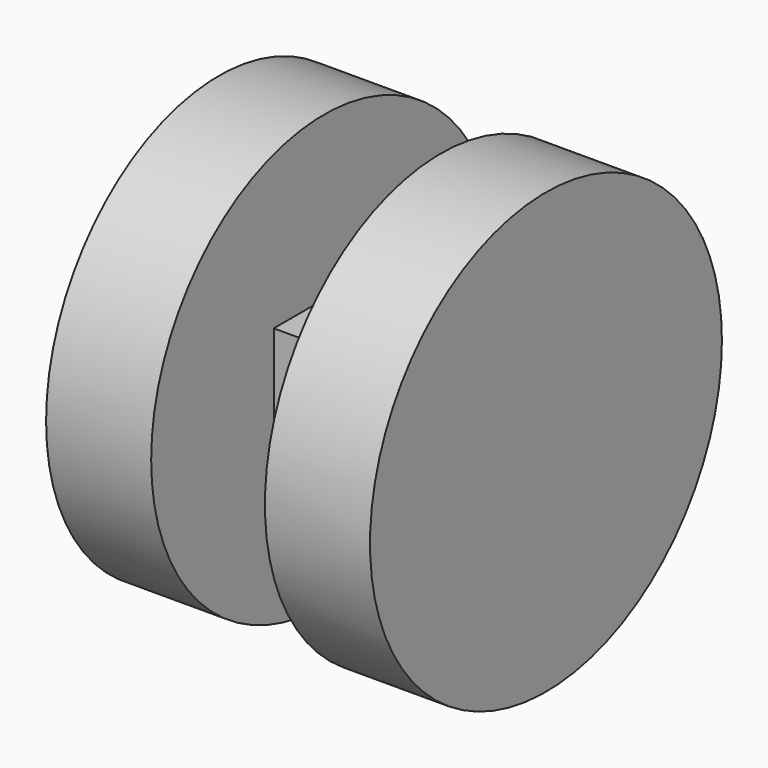
from build123d import *

# Parameters (mm, degrees)
F0_W     = 28.194
F0_H     = 28.194
F1_DEPTH = 28.194
F2_R     = 6.477
F3_DEPTH = 28.195
F4_R     = 53.155015
F5_DEPTH = 25.4
F6_R     = 52.277652
F7_DEPTH = 25.4


with BuildPart() as f1:
    # F0 (on Front) → F1 (new body)
    with BuildSketch(Plane.XZ):
        with Locations((-14.097, -14.097)):
            Rectangle(F0_W, F0_H)
    extrude(amount=F1_DEPTH)

    # F2 (on face) → F3 (cut, through all)
    with BuildSketch(Plane.YZ):
        with Locations((-12.954, -12.954)):
            Circle(F2_R)
    extrude(amount=-F3_DEPTH, mode=Mode.SUBTRACT)

    # F4 (on face) → F5 (join)
    with BuildSketch(Plane.YZ):
        with Locations((-12.954, -12.954)):
            Circle(F4_R)
    extrude(amount=F5_DEPTH)

    # F6 (on face) → F7 (join)
    with BuildSketch(Plane(origin=(-28.194, 0, 0), x_dir=(0, -1, 0), z_dir=(-1, 0, 0))):
        with Locations((12.954, -12.954)):
            Circle(F6_R)
    extrude(amount=F7_DEPTH)


solid = f1.part
